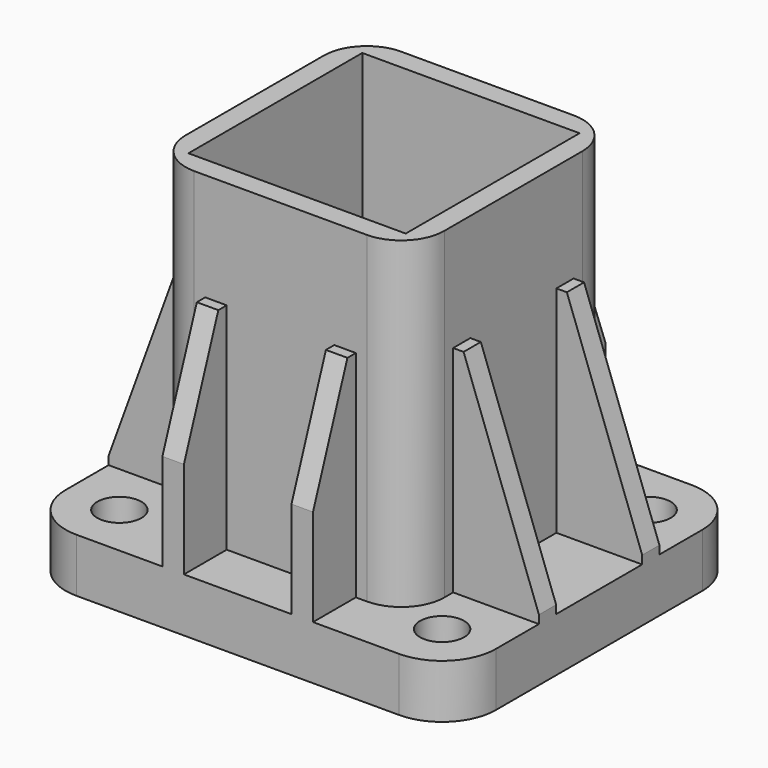
from build123d import *

# Parameters (mm, degrees)
F0_W        = 40
F0_H        = 34
F0_R        = 2.05
F0_R_2      = 2.1
F1_DEPTH    = 5
F2_R        = 4.75
F2_R_2      = 2.1
F3_DEPTH    = 3
F4_W        = 24.05
F4_H        = 24.05
F4_W_2      = 20.2
F4_H_2      = 20.2
F5_DEPTH    = 30
F6_R        = 5
F7_R        = 4
F8_W        = 2
F8_H        = 4.975
F8_W_2      = 7.975
F8_H_2      = 2
F9_DEPTH    = 20
F10_SIZE2   = 19.2323419362
F10_SIZE    = 7
F10_2_SIZE2 = 19.2323419362
F10_2_SIZE  = 7
F11_SIZE2   = 7
F11_SIZE    = 19.2323419362
F12_SIZE2   = 4
F12_SIZE    = 10.9899096778
F13_SIZE2   = 10.9899096778
F13_SIZE    = 4
F13_2_SIZE2 = 10.9899096778
F13_2_SIZE  = 4


with BuildPart() as f1:
    # F0 (on Top) → F1 (new body)
    with BuildSketch(Plane.XY):
        Rectangle(F0_W, F0_H)
        with Locations((-15, -12)):
            Circle(F0_R, mode=Mode.SUBTRACT)
        with Locations((15, -12)):
            Circle(F0_R, mode=Mode.SUBTRACT)
        with Locations((-15, 12)):
            Circle(F0_R, mode=Mode.SUBTRACT)
        Circle(F0_R_2, mode=Mode.SUBTRACT)
        with Locations((15, 12)):
            Circle(F0_R, mode=Mode.SUBTRACT)
    extrude(amount=F1_DEPTH)

    # F2 (on face) → F3 (cut)
    with BuildSketch(Plane(origin=(0, 0, 0), x_dir=(1, 0, 0), z_dir=(0, 0, -1))):
        Circle(F2_R)
        Circle(F2_R_2, mode=Mode.SUBTRACT)
    extrude(amount=-F3_DEPTH, mode=Mode.SUBTRACT)

    # F4 (on face) → F5 (join)
    with BuildSketch(Plane.XY.offset(5)):
        Rectangle(F4_W, F4_H)
        Rectangle(F4_W_2, F4_H_2, mode=Mode.SUBTRACT)
    extrude(amount=F5_DEPTH)

    # F6
    f6_edges = [f1.edges().sort_by_distance(p)[0] for p in [
        (20, 17, 2.5),
        (20, -17, 2.5),
        (-20, -17, 2.5),
        (-20, 17, 2.5),
    ]]
    fillet(f6_edges, radius=F6_R)

    # F7
    f7_edges = [f1.edges().sort_by_distance(p)[0] for p in [
        (12.025, -12.025, 20),
        (12.025, 12.025, 20),
        (-12.025, -12.025, 20),
        (-12.025, 12.025, 20),
    ]]
    fillet(f7_edges, radius=F7_R)

    # F8 (on face) → F9 (join)
    with BuildSketch(Plane.XY.offset(5)):
        with Locations((-6, 14.5125)):
            Rectangle(F8_W, F8_H)
        with Locations((6, 14.5125)):
            Rectangle(F8_W, F8_H)
        with Locations((16.0125, 6)):
            Rectangle(F8_W_2, F8_H_2)
        with Locations((16.0125, -6)):
            Rectangle(F8_W_2, F8_H_2)
        with Locations((6, -14.5125)):
            Rectangle(F8_W, F8_H)
        with Locations((-6, -14.5125)):
            Rectangle(F8_W, F8_H)
        with Locations((-16.0125, -6)):
            Rectangle(F8_W_2, F8_H_2)
        with Locations((-16.0125, 6)):
            Rectangle(F8_W_2, F8_H_2)
    extrude(amount=F9_DEPTH)

    # F10
    f10_edges = [f1.edges().sort_by_distance(p)[0] for p in [
        (20, 6, 25),
    ]]
    f10_side = f1.faces().sort_by_distance((16.0125, 6, 25))[0]
    chamfer(f10_edges, length=F10_SIZE, length2=F10_SIZE2, reference=f10_side)

    # F10#2
    f10_2_edges = [f1.edges().sort_by_distance(p)[0] for p in [
        (20, -6, 25),
    ]]
    f10_2_side = f1.faces().sort_by_distance((16.0125, -6, 25))[0]
    chamfer(f10_2_edges, length=F10_2_SIZE, length2=F10_2_SIZE2, reference=f10_2_side)

    # F11
    f11_edges = [f1.edges().sort_by_distance(p)[0] for p in [
        (-20, 6, 25),
        (-20, -6, 25),
    ]]
    f11_side = f1.faces().sort_by_distance((-20, 0, 0.346554))[0]
    chamfer(f11_edges, length=F11_SIZE, length2=F11_SIZE2, reference=f11_side)

    # F12
    f12_edges = [f1.edges().sort_by_distance(p)[0] for p in [
        (6, -17, 25),
        (-6, -17, 25),
    ]]
    f12_side = f1.faces().sort_by_distance((0, -17, 0.390512))[0]
    chamfer(f12_edges, length=F12_SIZE, length2=F12_SIZE2, reference=f12_side)

    # F13
    f13_edges = [f1.edges().sort_by_distance(p)[0] for p in [
        (-6, 17, 25),
    ]]
    f13_side = f1.faces().sort_by_distance((-6, 14.5125, 25))[0]
    chamfer(f13_edges, length=F13_SIZE, length2=F13_SIZE2, reference=f13_side)

    # F13#2
    f13_2_edges = [f1.edges().sort_by_distance(p)[0] for p in [
        (6, 17, 25),
    ]]
    f13_2_side = f1.faces().sort_by_distance((6, 14.5125, 25))[0]
    chamfer(f13_2_edges, length=F13_2_SIZE, length2=F13_2_SIZE2, reference=f13_2_side)


solid = f1.part
